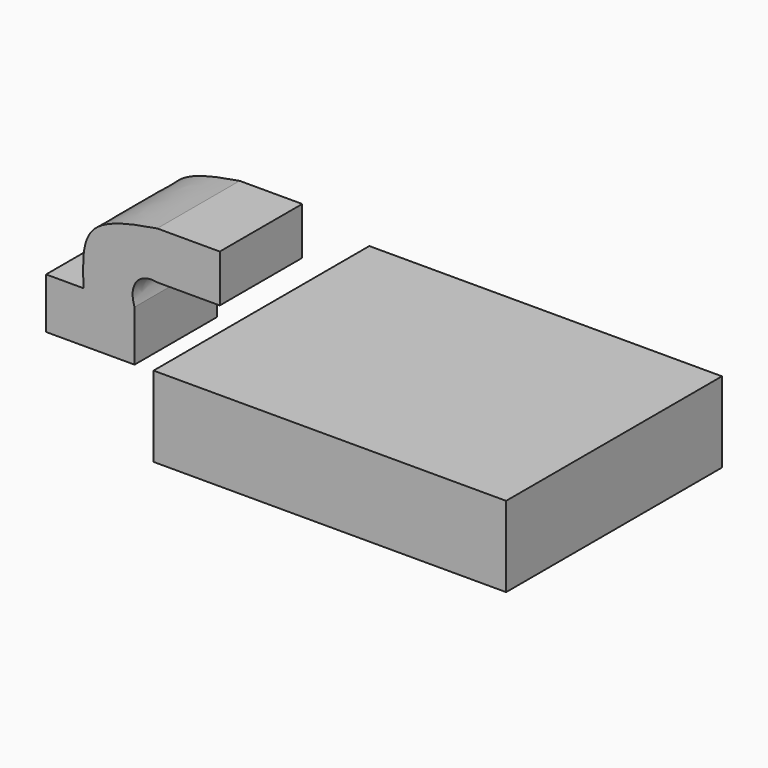
from build123d import *

# Parameters (mm, degrees)
F1_DEPTH = 25
F2_W     = 85.5280570686
F2_H     = 65.4282718897
F3_DEPTH = 19.5


with BuildPart() as f1:
    # F0 (on Front) → F1 (new body)
    with BuildSketch(Plane.XZ):
        with BuildLine():
            Line((-52.1368719637, 18.3813534677), (-52.1368719637, 6.08182))
            Line((-52.1368719637, 6.08182), (-30.679255724, 6.08182))
            Line((-30.679255724, 6.08182), (-30.679255724, 18.3813534677))
            add(Edge.make_bspline(
                [(-30.679255724, 18.3813534677), (-32.2119481862, 22.6791929454), (-29.8628807068, 26.3472329825), (-25.1840129495, 25.4470407963)],
                knots=[0, 0, 0, 0, 8.9510686834, 8.9510686834, 8.9510686834, 8.9510686834], degree=3))
            Line((-25.1840129495, 25.4470407963), (-10.0066736341, 25.4470407963))
            Line((-10.0066736341, 25.4470407963), (-10.0066736341, 36.9614958763))
            Line((-10.0066736341, 36.9614958763), (-25.1840129495, 36.9614958763))
            add(Edge.make_bspline(
                [(-25.1840129495, 36.9614958763), (-31.6314211359, 35.8709373617), (-43.7773138453, 33.8164983797), (-43.2748553138, 23.3104654925), (-43.0391170084, 18.3813534677)],
                knots=[0, 0, 0, 0, 0.530830326, 1, 1, 1, 1], degree=3))
            Line((-43.0391170084, 18.3813534677), (-52.1368719637, 18.3813534677))
        make_face()
    extrude(amount=F1_DEPTH)


with BuildPart() as f3:
    # F2 (on Top) → F3 (new body)
    with BuildSketch(Plane.XY):
        with Locations((32.5062070042, -12.0598785579)):
            Rectangle(F2_W, F2_H)
    extrude(amount=F3_DEPTH)


solid = Compound([f1.part, f3.part])
